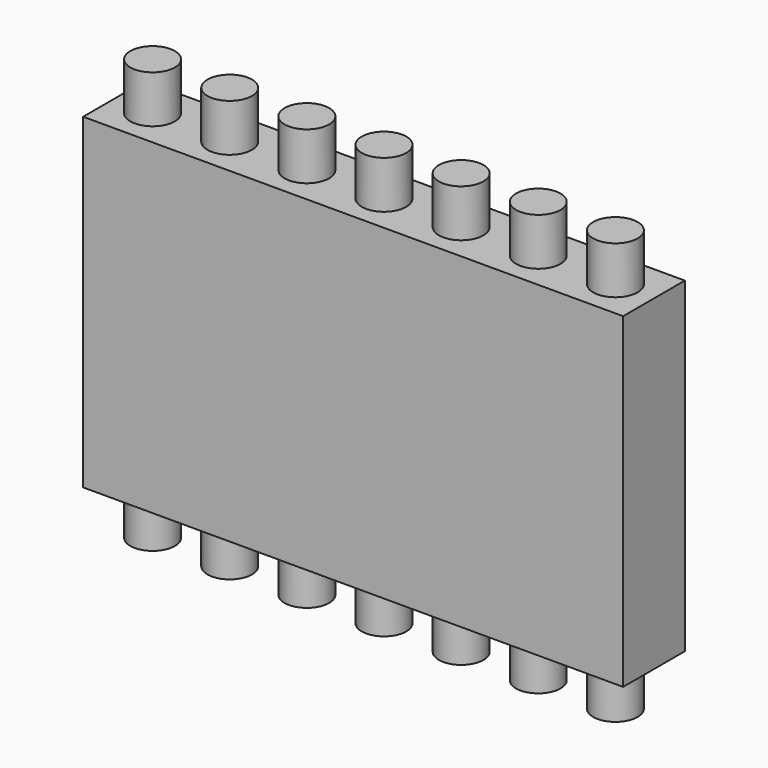
from build123d import *

# Parameters (mm, degrees)
F0_W     = 18.2
F0_H     = 2.6
F1_DEPTH = 11
F2_R     = 0.75
F3_DEPTH = 1.6
F4_R     = 0.75
F5_DEPTH = 1.6


with BuildPart() as f1:
    # F0 (on Top) → F1 (new body)
    with BuildSketch(Plane.XY):
        with Locations((9.1, 1.3)):
            Rectangle(F0_W, F0_H)
    extrude(amount=F1_DEPTH)

    # F2 (on face) → F3 (join)
    with BuildSketch(Plane.XY.offset(11)):
        with Locations((9.1, 1.3)):
            Circle(F2_R)
        with Locations((1.3, 1.3)):
            Circle(F2_R)
        with Locations((3.9, 1.3)):
            Circle(F2_R)
        with Locations((6.5, 1.3)):
            Circle(F2_R)
        with Locations((11.7, 1.3)):
            Circle(F2_R)
        with Locations((14.3, 1.3)):
            Circle(F2_R)
        with Locations((16.9, 1.3)):
            Circle(F2_R)
    extrude(amount=F3_DEPTH)

    # F4 (on face) → F5 (join)
    with BuildSketch(Plane(origin=(0, 0, 0), x_dir=(1, 0, 0), z_dir=(0, 0, -1))):
        with Locations((9.1, -1.3)):
            Circle(F4_R)
        with Locations((1.3, -1.3)):
            Circle(F4_R)
        with Locations((3.9, -1.3)):
            Circle(F4_R)
        with Locations((6.5, -1.3)):
            Circle(F4_R)
        with Locations((11.7, -1.3)):
            Circle(F4_R)
        with Locations((14.3, -1.3)):
            Circle(F4_R)
        with Locations((16.9, -1.3)):
            Circle(F4_R)
    extrude(amount=F5_DEPTH)


solid = f1.part
